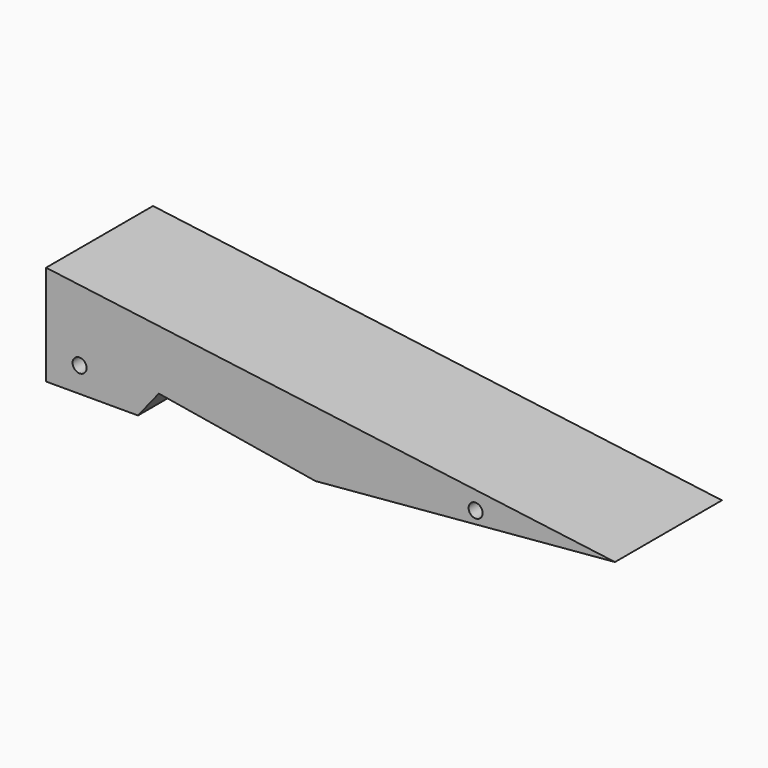
from build123d import *

# Parameters (mm, degrees)
F0_R          = 2.667
F1_DEPTH      = 25.4
F1_DEPTH_BACK = 25.4


with BuildPart() as f1:
    # F0 (on Front) → F1 (new body, two sides)
    with BuildSketch(Plane.XZ) as f1_sk:
        Polygon((160.421284, 0), (-55.799427, 28.175554), (-55.799427, -9.924446), (-20.874427, -9.924446), (-12.950074, 0), (46.552959, -9.924446), align=None)
        with Locations((-43.065745, -0.39416)):
            Circle(F0_R, mode=Mode.SUBTRACT)
        with Locations((107.441455, 0)):
            Circle(F0_R, mode=Mode.SUBTRACT)
    extrude(amount=F1_DEPTH)
    extrude(f1_sk.sketch, amount=-F1_DEPTH_BACK)


solid = f1.part
